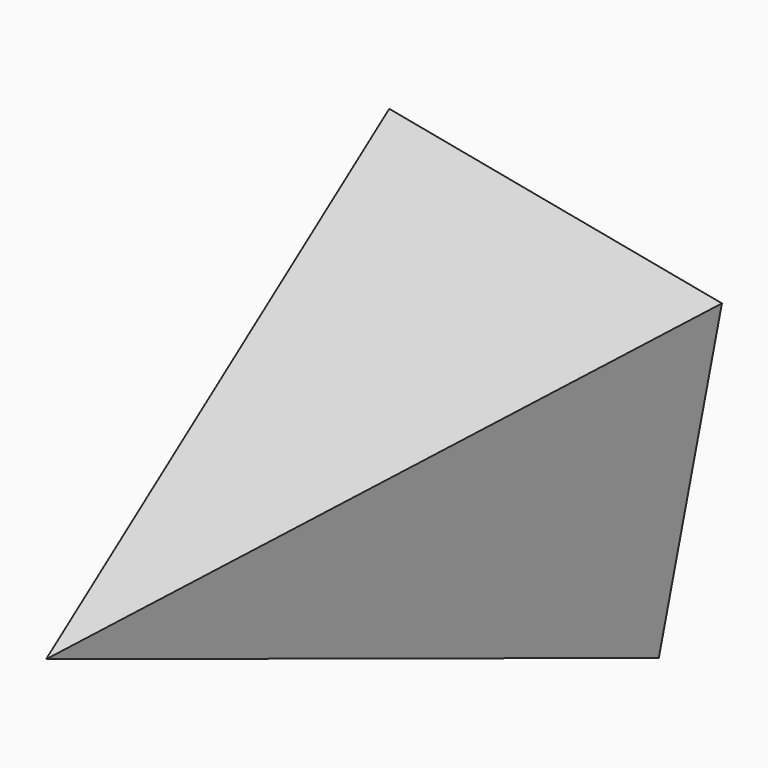
from build123d import *


with BuildPart() as f3:
    # F0 (on Front) → F3 section 0
    with BuildSketch(Plane.XZ, mode=Mode.PRIVATE) as f3_s0:
        Polygon((-24.815574, 36.434427), (-36.434427, -24.815574), (24.815574, -36.434427), (36.434427, 24.815574), align=None)
    loft([f3_s0.sketch, Vertex(0, -110, 0)])


solid = f3.part
